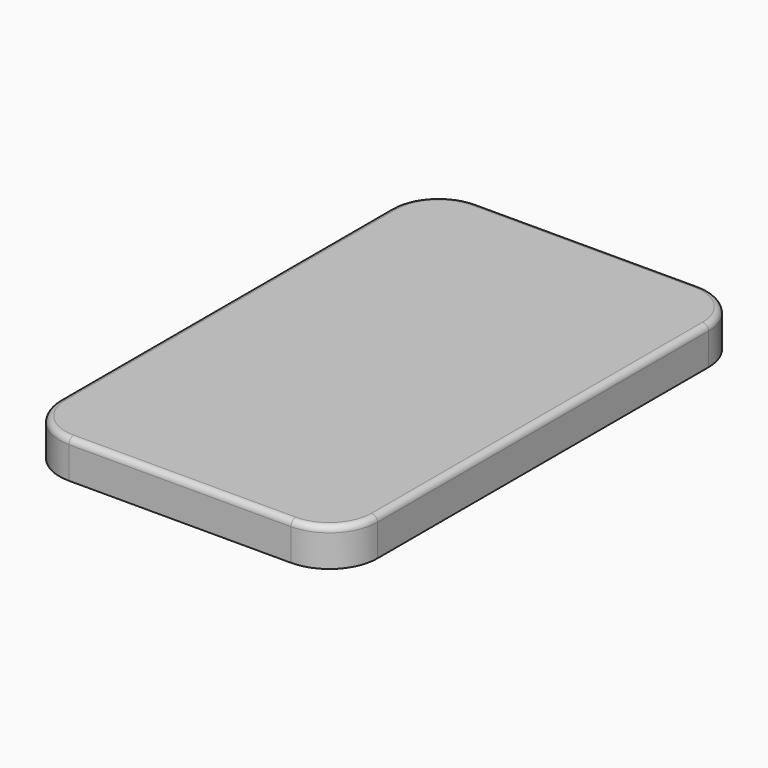
from build123d import *

# Parameters (mm, degrees)
F1_DEPTH = 10
F2_R     = 1.5875
F4_DEPTH = 9


with BuildPart() as f1:
    # F0 (on Top) → F1 (new body)
    with BuildSketch(Plane.XY):
        with BuildLine():
            ThreePointArc((42.0751, 54.7751), (38.355356, 63.755356), (29.3751, 67.4751))
            Line((29.3751, 67.4751), (-29.3751, 67.4751))
            ThreePointArc((-29.3751, 67.4751), (-38.355356, 63.755356), (-42.0751, 54.7751))
            Line((-42.0751, 54.7751), (-42.0751, -54.7751))
            ThreePointArc((-42.0751, -54.7751), (-38.355356, -63.755356), (-29.3751, -67.4751))
            Line((-29.3751, -67.4751), (29.3751, -67.4751))
            ThreePointArc((29.3751, -67.4751), (38.355356, -63.755356), (42.0751, -54.7751))
            Line((42.0751, -54.7751), (42.0751, 54.7751))
        make_face()
    extrude(amount=F1_DEPTH)

    # F2
    f2_edges = [f1.edges().sort_by_distance(p)[0] for p in [
        (42.0751, 0, 10),
        (38.355356, -63.755356, 10),
        (0, -67.4751, 10),
        (-38.355356, -63.755356, 10),
        (-42.0751, 0, 10),
        (-38.355356, 63.755356, 10),
        (0, 67.4751, 10),
        (38.355356, 63.755356, 10),
    ]]
    fillet(f2_edges, radius=F2_R)

    # F3 (on Top) → F4 (cut)
    with BuildSketch(Plane.XY):
        with BuildLine():
            Line((-28.575, -66.675), (28.575, -66.675))
            ThreePointArc((28.575, -66.675), (37.555256, -62.955256), (41.275, -53.975))
            Line((41.275, -53.975), (41.275, 53.975))
            ThreePointArc((41.275, 53.975), (37.555256, 62.955256), (28.575, 66.675))
            Line((28.575, 66.675), (-28.575, 66.675))
            ThreePointArc((-28.575, 66.675), (-37.555256, 62.955256), (-41.275, 53.975))
            Line((-41.275, 53.975), (-41.275, -53.975))
            ThreePointArc((-41.275, -53.975), (-37.555256, -62.955256), (-28.575, -66.675))
        make_face()
    extrude(amount=F4_DEPTH, mode=Mode.SUBTRACT)


solid = f1.part
